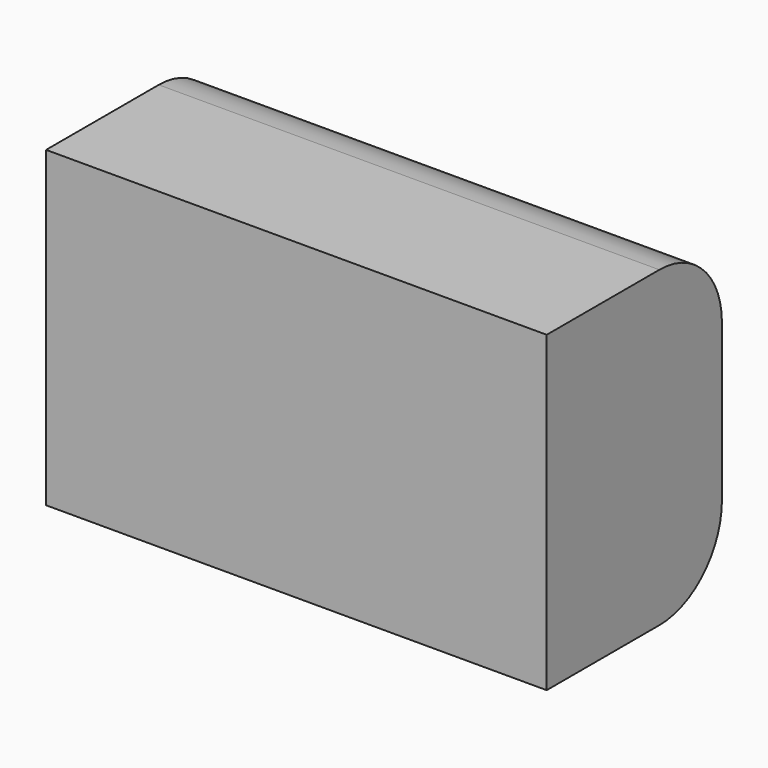
from build123d import *

# Parameters (mm, degrees)
F0_W     = 88.9
F0_H     = 127
F1_DEPTH = 203.2
F2_R     = 31.75
F3_R     = 31.75


with BuildPart() as f1:
    # F0 (on Right) → F1 (new body)
    with BuildSketch(Plane.YZ):
        with Locations((44.45, 63.5)):
            Rectangle(F0_W, F0_H)
    extrude(amount=F1_DEPTH)

    # F2
    f2_edges = [f1.edges().sort_by_distance(p)[0] for p in [
        (101.6, 88.9, 127),
    ]]
    fillet(f2_edges, radius=F2_R)

    # F3
    f3_edges = [f1.edges().sort_by_distance(p)[0] for p in [
        (101.6, 88.9, 0),
    ]]
    fillet(f3_edges, radius=F3_R)


solid = f1.part
